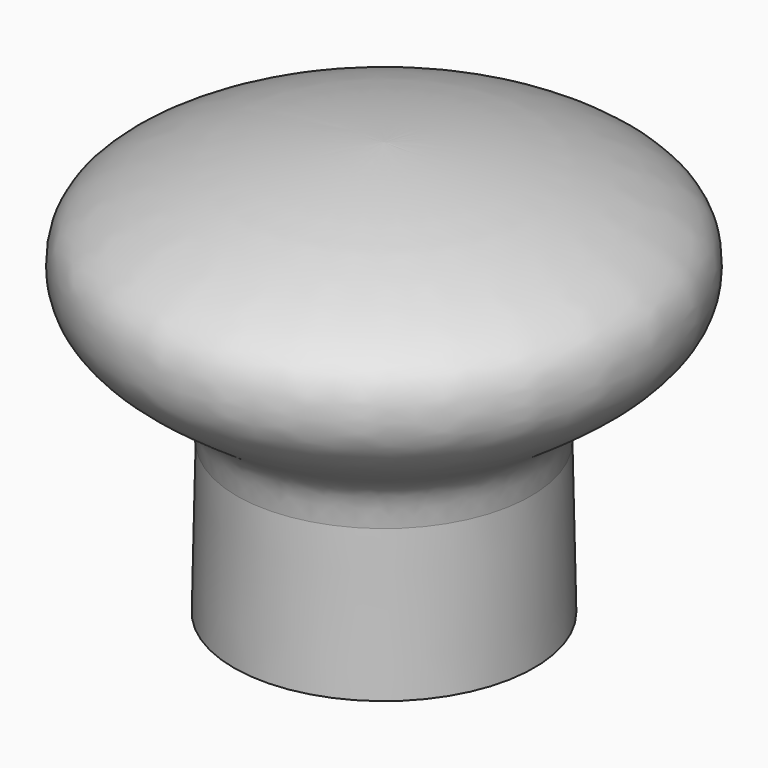
from build123d import *

# Parameters (mm, degrees)
F2_R     = 5.5
F3_DEPTH = 12


with BuildPart() as f1:
    # F0 (on Front) → F1 (revolve)
    with BuildSketch(Plane.XZ):
        with BuildLine():
            Line((-7, 0), (0, 0))
            Line((0, 0), (0, 19.287539646))
            add(Edge.make_bspline(
                [(-6.8572470918, 7.0020654239), (-6.9487805053, 8.2835290181), (-7.4177522699, 9.0918564353), (-9.1393550558, 10.1938156399), (-10.9626762983, 11.5248221331), (-11.9001010557, 12.6295771001), (-12.3487854819, 13.6817339635), (-12.29460884, 15.432828991), (-11.114555978, 16.7320980646), (-7.0685137413, 18.5613180355), (-2.4038472901, 19.2258058575), (0, 19.287539646)],
                knots=[0, 0, 0, 0, 0.1075971447, 0.2055340858, 0.3147427787, 0.4000182147, 0.4757953522, 0.5668371086, 0.6571492953, 0.8056228298, 1, 1, 1, 1], degree=3))
            Line((-6.8572470918, 7.0020654239), (-7, 0))
        make_face()
    revolve(axis=Axis((0, 0, 9.643769823), (0, 0, -1)))

    # F2 (on face) → F3 (cut)
    with BuildSketch(Plane(origin=(0, 0, 0), x_dir=(1, 0, 0), z_dir=(0, 0, -1))):
        Circle(F2_R)
    extrude(amount=-F3_DEPTH, mode=Mode.SUBTRACT)


solid = f1.part
